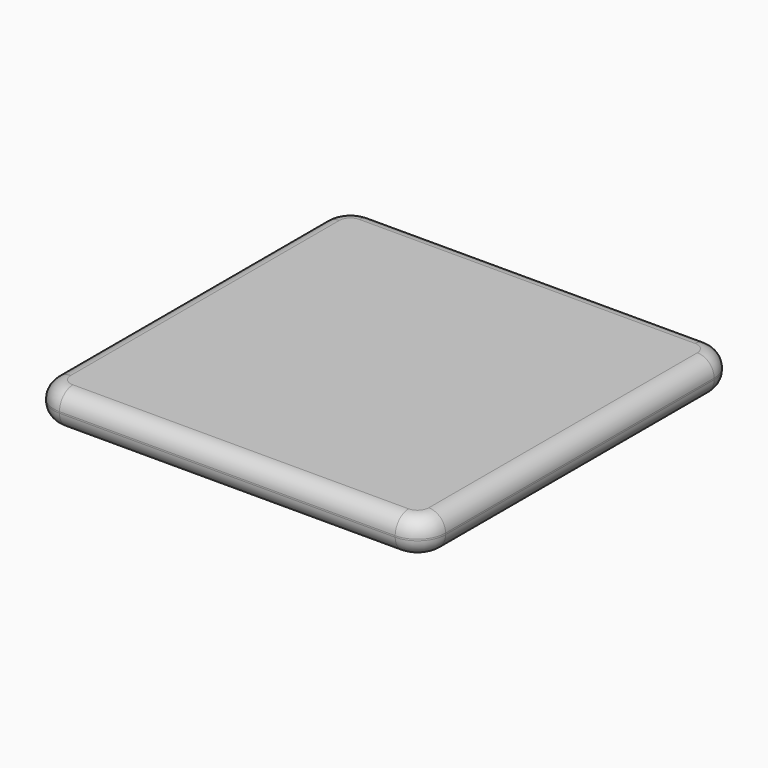
from build123d import *

# Parameters (mm, degrees)
F1_DEPTH = 31.75
F2_R     = 15.24


with BuildPart() as f1:
    # F0 (on Top) → F1 (new body)
    with BuildSketch(Plane.XY):
        with BuildLine():
            Line((152.4, 177.8), (-152.4, 177.8))
            ThreePointArc((-152.4, 177.8), (-170.360512, 170.360512), (-177.8, 152.4))
            Line((-177.8, 152.4), (-177.8, -152.4))
            ThreePointArc((-177.8, -152.4), (-170.360512, -170.360512), (-152.4, -177.8))
            Line((-152.4, -177.8), (152.4, -177.8))
            ThreePointArc((152.4, -177.8), (170.360512, -170.360512), (177.8, -152.4))
            Line((177.8, -152.4), (177.8, 152.4))
            ThreePointArc((177.8, 152.4), (170.360512, 170.360512), (152.4, 177.8))
        make_face()
    extrude(amount=F1_DEPTH)

    # F2
    f2_edges = [f1.edges().sort_by_distance(p)[0] for p in [
        (152.4, 177.8, 15.875),
        (-152.4, 177.8, 15.875),
        (0, 177.8, 0),
        (0, 177.8, 31.75),
        (-170.360512, 170.360512, 31.75),
        (-177.8, 0, 31.75),
        (-170.360512, -170.360512, 31.75),
        (0, -177.8, 31.75),
        (170.360512, -170.360512, 31.75),
        (177.8, 0, 31.75),
        (170.360512, 170.360512, 31.75),
        (-170.360512, 170.360512, 0),
        (-177.8, 0, 0),
        (-170.360512, -170.360512, 0),
        (0, -177.8, 0),
        (170.360512, -170.360512, 0),
        (177.8, 0, 0),
        (170.360512, 170.360512, 0),
        (-177.8, 152.4, 15.875),
        (-177.8, -152.4, 15.875),
        (177.8, -152.4, 15.875),
        (177.8, 152.4, 15.875),
        (-152.4, -177.8, 15.875),
        (152.4, -177.8, 15.875),
    ]]
    fillet(f2_edges, radius=F2_R)


solid = f1.part
